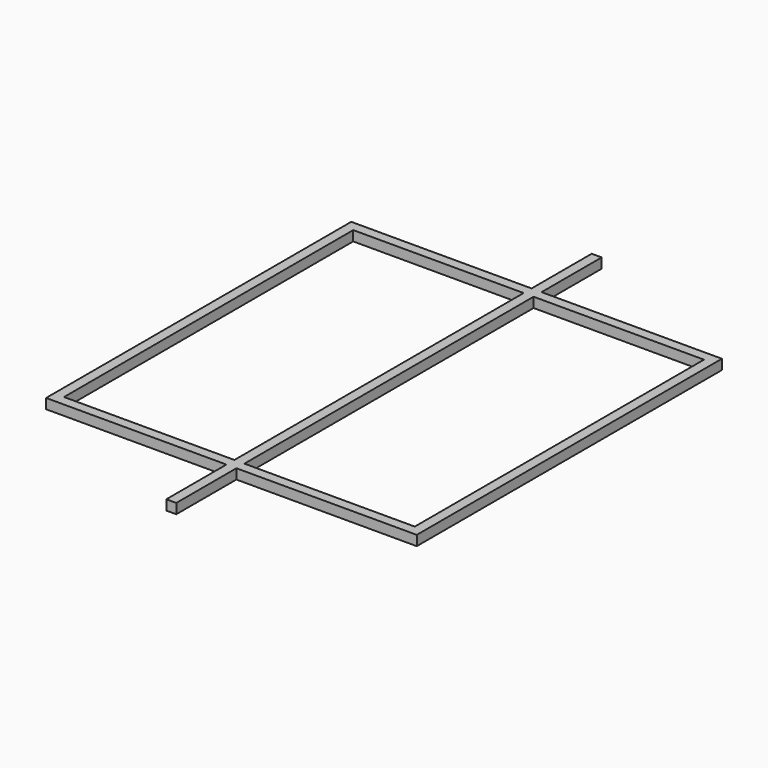
from build123d import *

# Parameters (mm, degrees)
F0_W     = 867.664
F0_H     = 1840.898474
F1_DEPTH = 50.8


with BuildPart() as f1:
    # F0 (on Top) → F1 (new body)
    with BuildSketch(Plane.XY):
        Polygon((-893.064, 971.249237), (-943.864, 971.249237), (-943.864, -971.249237), (-893.064, -971.249237), (-25.4, -971.249237), (-25.4, -1354.089795), (25.4, -1354.089795), (25.4, -971.249237), (893.064, -971.249237), (943.864, -971.249237), (943.864, 971.249237), (893.064, 971.249237), (25.4, 971.249237), (25.4, 1354.089795), (-25.4, 1354.089795), (-25.4, 971.249237), align=None)
        with Locations((-459.232, 0)):
            Rectangle(F0_W, F0_H, mode=Mode.SUBTRACT)
        with Locations((459.232, 0)):
            Rectangle(F0_W, F0_H, mode=Mode.SUBTRACT)
    extrude(amount=F1_DEPTH)


solid = f1.part
